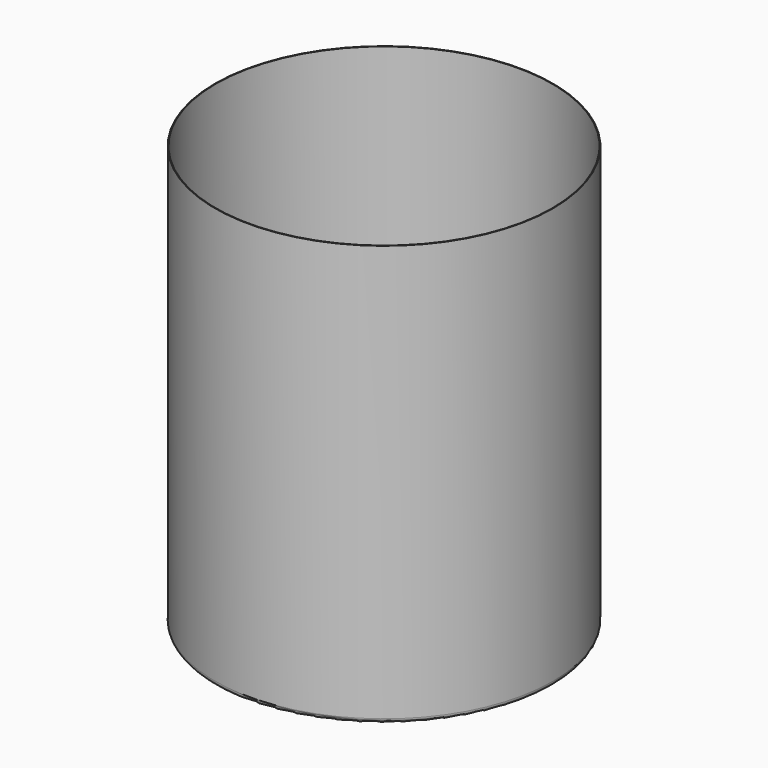
from build123d import *

# Parameters (mm, degrees)
F2_R     = 7.5
F3_DEPTH = 226.06


with BuildPart() as f1:
    # F0 (on Front) → F1 (revolve)
    with BuildSketch(Plane.XZ):
        with BuildLine():
            Line((0, 0.404), (0, 0))
            Line((0, 0), (107.404, 0))
            ThreePointArc((107.404, 0), (109.52532, 0.87868), (110.404, 3))
            Line((110.404, 3), (110.404, 275))
            Line((110.404, 275), (110, 275))
            Line((110, 275), (110, 3))
            ThreePointArc((110, 3), (109.239649, 1.164351), (107.404, 0.404))
            Line((107.404, 0.404), (0, 0.404))
        make_face()
    revolve(axis=Axis((0, 0, 0.202), (0, 0, -1)))

    # F2 (on Front) → F3 (cut)
    with BuildSketch(Plane.XZ):
        with Locations((0, 22.5)):
            Circle(F2_R)
    extrude(amount=-F3_DEPTH, mode=Mode.SUBTRACT)


solid = f1.part
